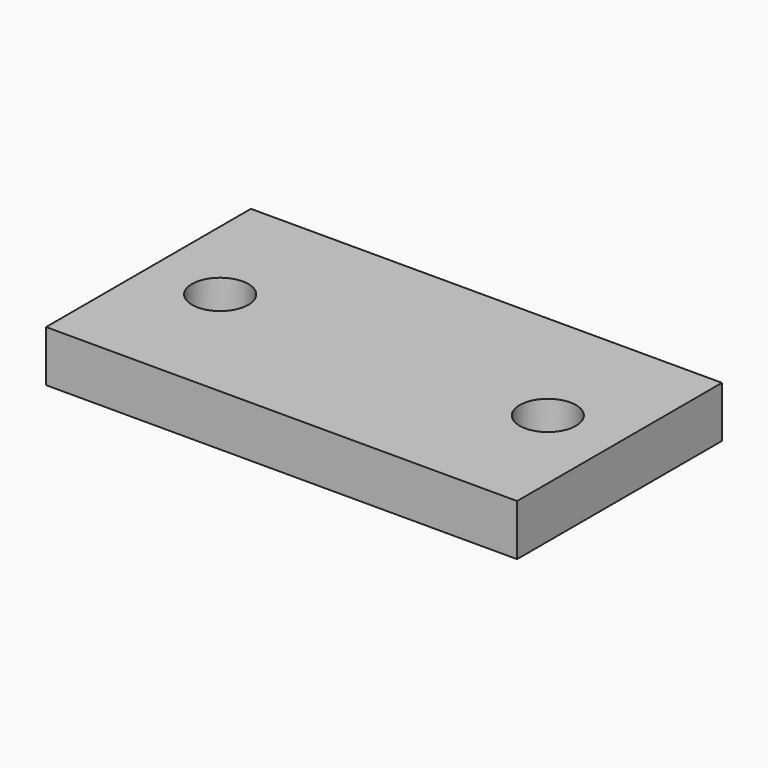
from build123d import *

# Parameters (mm, degrees)
F0_W     = 46
F0_H     = 25
F0_R     = 2.7559
F0_R_2   = 2.75
F1_DEPTH = 5


with BuildPart() as f1:
    # F0 (on Top) → F1 (new body)
    with BuildSketch(Plane.XY):
        Rectangle(F0_W, F0_H)
        with Locations((-16, 0)):
            Circle(F0_R, mode=Mode.SUBTRACT)
        with Locations((16, 0)):
            Circle(F0_R_2, mode=Mode.SUBTRACT)
    extrude(amount=F1_DEPTH)


solid = f1.part
